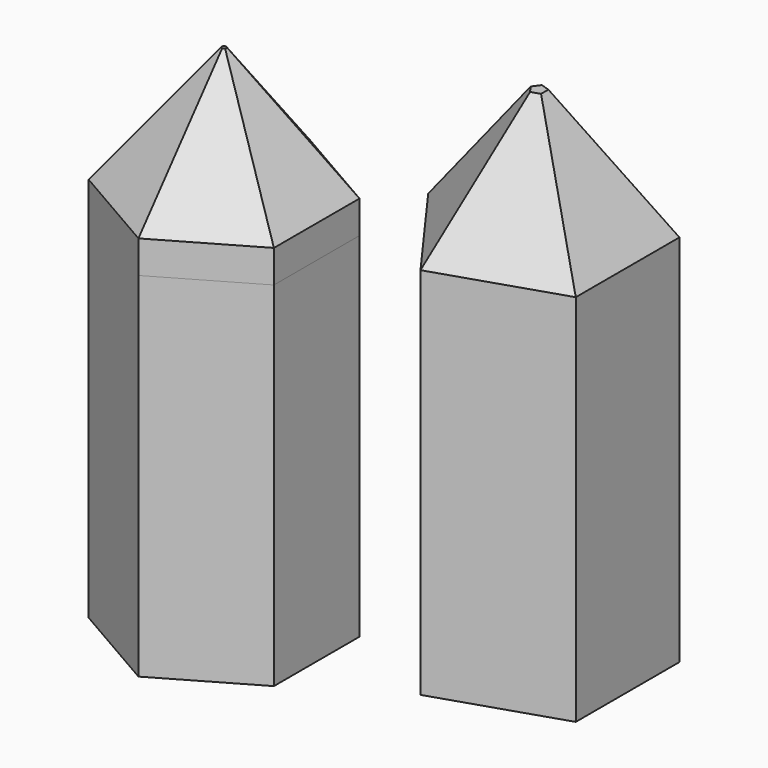
from build123d import *

# Parameters (mm, degrees)
F1_DEPTH = 190.5
F2_SIZE2 = 70.928297
F2_SIZE  = 109.22
F3_DEPTH = 238.76
F5_DEPTH = 134.62
F6_SIZE2 = 77.507557
F6_SIZE  = 106.68
F7_DEPTH = 302.26


with BuildPart() as f1:
    # F0 (on Top) → F1 (new body)
    with BuildSketch(Plane.XY):
        Polygon((76.338895, -55.463454), (76.338895, 55.463454), (-29.158863, 89.741753), (-94.360063, 0), (-29.158863, -89.741753), align=None)
    extrude(amount=F1_DEPTH)

    # F2
    f2_edges = [f1.edges().sort_by_distance(p)[0] for p in [
        (-61.759463, -44.870876, 190.5),
        (23.590016, -72.602603, 190.5),
        (76.338895, 0, 190.5),
        (23.590016, 72.602603, 190.5),
        (-61.759463, 44.870876, 190.5),
    ]]
    chamfer(f2_edges, length=F2_SIZE, length2=F2_SIZE2)

    # F1_face (on face) → F3 (join)
    with BuildSketch(Plane(origin=(0, 0, 0), x_dir=(1, 0, 0), z_dir=(0, 0, -1))):
        Polygon((-29.158863, 89.741753), (-94.360063, 0), (-29.158863, -89.741753), (76.338895, -55.463454), (76.338895, 55.463454), align=None)
    extrude(amount=F3_DEPTH)


with BuildPart() as f5:
    # F4 (on Top) → F5 (new body)
    with BuildSketch(Plane.XY):
        Polygon((-189.792752, -45.792489), (-189.792752, 45.792489), (-269.10767, 91.584978), (-348.422587, 45.792489), (-348.422587, -45.792489), (-269.10767, -91.584978), align=None)
    extrude(amount=F5_DEPTH)

    # F6
    f6_edges = [f5.edges().sort_by_distance(p)[0] for p in [
        (-308.765128, -68.688733, 134.62),
        (-229.450211, -68.688733, 134.62),
        (-189.792752, 0, 134.62),
        (-229.450211, 68.688733, 134.62),
        (-308.765128, 68.688733, 134.62),
        (-348.422587, 0, 134.62),
    ]]
    chamfer(f6_edges, length=F6_SIZE, length2=F6_SIZE2)

    # F5_face (on face) → F7 (join)
    with BuildSketch(Plane(origin=(-269.10767, 0, 0), x_dir=(1, 0, 0), z_dir=(0, 0, -1))):
        Polygon((79.314917, -45.792489), (79.314917, 45.792489), (0, 91.584978), (-79.314917, 45.792489), (-79.314917, -45.792489), (0, -91.584978), align=None)
    extrude(amount=F7_DEPTH)


solid = Compound([f1.part, f5.part])
